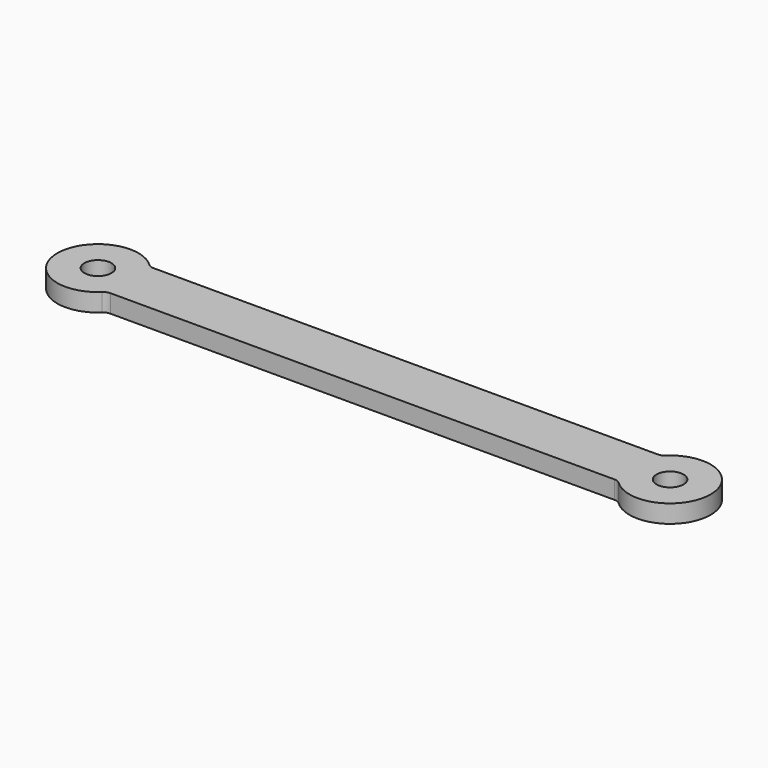
from build123d import *

# Parameters (mm, degrees)
F0_R     = 15
F1_DEPTH = 20


with BuildPart() as f1:
    # F0 (on Top) → F1 (new body)
    with BuildSketch(Plane.XY):
        with BuildLine():
            ThreePointArc((344.388068, -30), (348.080813, -30.706796), (351.251554, -32.727273))
            ThreePointArc((351.251554, -32.727273), (427.13724, 0), (351.251554, 32.727273))
            ThreePointArc((351.251554, 32.727273), (348.080813, 30.706796), (344.388068, 30))
            Line((344.388068, 30), (-214.609888, 30))
            ThreePointArc((-214.609888, 30), (-218.302632, 30.706796), (-221.473374, 32.727273))
            ThreePointArc((-221.473374, 32.727273), (-297.35906, 0), (-221.473374, -32.727273))
            ThreePointArc((-221.473374, -32.727273), (-218.302632, -30.706796), (-214.609888, -30))
            Line((-214.609888, -30), (344.388068, -30))
        make_face()
        with Locations((-252.35906, 0)):
            Circle(F0_R, mode=Mode.SUBTRACT)
        with Locations((382.13724, 0)):
            Circle(F0_R, mode=Mode.SUBTRACT)
    extrude(amount=F1_DEPTH)


solid = f1.part
